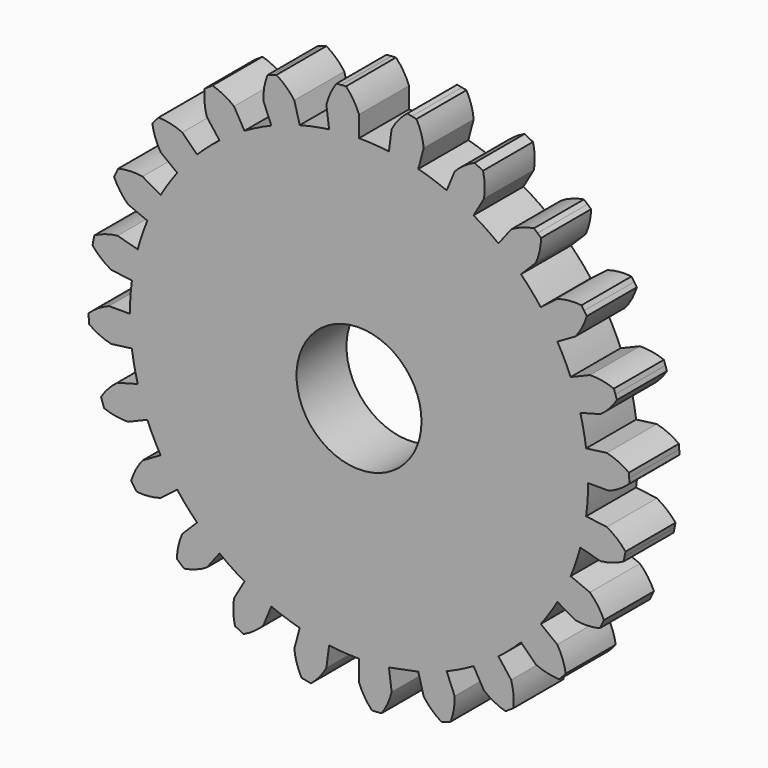
from build123d import *

# Parameters (mm, degrees)
F1_DEPTH = 6.35
F2_R     = 6.35
F3_DEPTH = 6.351


with BuildPart() as f1:
    # F0 (on Front) → F1 (new body)
    with BuildSketch(Plane.XZ):
        with BuildLine():
            Line((-3.315365, 25.182699), (-3.038532, 23.079944))
            ThreePointArc((-3.038532, 23.079944), (-4.541527, 22.831799), (-6.025074, 22.485884))
            Line((-6.025074, 22.485884), (-6.574004, 24.534516))
            ThreePointArc((-6.574004, 24.534516), (-7.398789, 25.462037), (-8.388247, 26.211396))
            Line((-8.388247, 26.211396), (-8.844945, 26.056367))
            Line((-8.844945, 26.056367), (-9.301643, 25.901339))
            ThreePointArc((-9.301643, 25.901339), (-9.630452, 24.704489), (-9.720159, 23.46654))
            Line((-9.720159, 23.46654), (-8.908526, 21.507084))
            ThreePointArc((-8.908526, 21.507084), (-10.296083, 20.87839), (-11.63955, 20.160292))
            Line((-11.63955, 20.160292), (-12.7, 21.997045))
            ThreePointArc((-12.7, 21.997045), (-13.736741, 22.679492), (-14.886432, 23.147226))
            Line((-14.886432, 23.147226), (-15.287445, 22.879278))
            Line((-15.287445, 22.879278), (-15.688457, 22.61133))
            ThreePointArc((-15.688457, 22.61133), (-15.696295, 21.37016), (-15.46254, 20.151175))
            Line((-15.46254, 20.151175), (-14.171418, 18.468552))
            ThreePointArc((-14.171418, 18.468552), (-15.348977, 17.502154), (-16.460809, 16.460809))
            Line((-16.460809, 16.460809), (-17.960512, 17.960512))
            ThreePointArc((-17.960512, 17.960512), (-19.138557, 18.351376), (-20.370132, 18.505611))
            Line((-20.370132, 18.505611), (-20.688131, 18.143004))
            Line((-20.688131, 18.143004), (-21.006129, 17.780396))
            ThreePointArc((-21.006129, 17.780396), (-20.692461, 16.579489), (-20.151175, 15.46254))
            Line((-20.151175, 15.46254), (-18.468552, 14.171418))
            ThreePointArc((-18.468552, 14.171418), (-19.355864, 12.933175), (-20.160292, 11.63955))
            Line((-20.160292, 11.63955), (-21.997045, 12.7))
            ThreePointArc((-21.997045, 12.7), (-23.236113, 12.772645), (-24.465642, 12.60287))
            Line((-24.465642, 12.60287), (-24.678955, 12.170314))
            Line((-24.678955, 12.170314), (-24.892268, 11.737758))
            ThreePointArc((-24.892268, 11.737758), (-24.27847, 10.658954), (-23.46654, 9.720159))
            Line((-23.46654, 9.720159), (-21.507084, 8.908526))
            ThreePointArc((-21.507084, 8.908526), (-22.043681, 7.482821), (-22.485884, 6.025074))
            Line((-22.485884, 6.025074), (-24.534516, 6.574004))
            ThreePointArc((-24.534516, 6.574004), (-25.750165, 6.32348), (-26.893858, 5.841263))
            Line((-26.893858, 5.841263), (-26.987948, 5.368237))
            Line((-26.987948, 5.368237), (-27.082039, 4.89521))
            ThreePointArc((-27.082039, 4.89521), (-26.209941, 4.012028), (-25.182699, 3.315365))
            Line((-25.182699, 3.315365), (-23.079944, 3.038532))
            ThreePointArc((-23.079944, 3.038532), (-23.229258, 1.522526), (-23.2791, 0))
            Line((-23.2791, 0), (-25.4, 0))
            ThreePointArc((-25.4, 0), (-26.509386, -0.556621), (-27.489302, -1.318416))
            Line((-27.489302, -1.318416), (-27.457758, -1.799677))
            Line((-27.457758, -1.799677), (-27.426215, -2.280938))
            ThreePointArc((-27.426215, -2.280938), (-26.355249, -2.90831), (-25.182699, -3.315365))
            Line((-25.182699, -3.315365), (-23.079944, -3.038532))
            ThreePointArc((-23.079944, -3.038532), (-22.831799, -4.541527), (-22.485884, -6.025074))
            Line((-22.485884, -6.025074), (-24.534516, -6.574004))
            ThreePointArc((-24.534516, -6.574004), (-25.462037, -7.398789), (-26.211396, -8.388247))
            Line((-26.211396, -8.388247), (-26.056367, -8.844945))
            Line((-26.056367, -8.844945), (-25.901339, -9.301643))
            ThreePointArc((-25.901339, -9.301643), (-24.704489, -9.630452), (-23.46654, -9.720159))
            Line((-23.46654, -9.720159), (-21.507084, -8.908526))
            ThreePointArc((-21.507084, -8.908526), (-20.87839, -10.296083), (-20.160292, -11.63955))
            Line((-20.160292, -11.63955), (-21.997045, -12.7))
            ThreePointArc((-21.997045, -12.7), (-22.679492, -13.736741), (-23.147226, -14.886432))
            Line((-23.147226, -14.886432), (-22.879278, -15.287445))
            Line((-22.879278, -15.287445), (-22.61133, -15.688457))
            ThreePointArc((-22.61133, -15.688457), (-21.37016, -15.696295), (-20.151175, -15.46254))
            Line((-20.151175, -15.46254), (-18.468552, -14.171418))
            ThreePointArc((-18.468552, -14.171418), (-17.502154, -15.348977), (-16.460809, -16.460809))
            Line((-16.460809, -16.460809), (-17.960512, -17.960512))
            ThreePointArc((-17.960512, -17.960512), (-18.351376, -19.138557), (-18.505611, -20.370132))
            Line((-18.505611, -20.370132), (-18.143004, -20.688131))
            Line((-18.143004, -20.688131), (-17.780396, -21.006129))
            ThreePointArc((-17.780396, -21.006129), (-16.579489, -20.692461), (-15.46254, -20.151175))
            Line((-15.46254, -20.151175), (-14.171418, -18.468552))
            ThreePointArc((-14.171418, -18.468552), (-12.933175, -19.355864), (-11.63955, -20.160292))
            Line((-11.63955, -20.160292), (-12.7, -21.997045))
            ThreePointArc((-12.7, -21.997045), (-12.772645, -23.236113), (-12.60287, -24.465642))
            Line((-12.60287, -24.465642), (-12.170314, -24.678955))
            Line((-12.170314, -24.678955), (-11.737758, -24.892268))
            ThreePointArc((-11.737758, -24.892268), (-10.658954, -24.27847), (-9.720159, -23.46654))
            Line((-9.720159, -23.46654), (-8.908526, -21.507084))
            ThreePointArc((-8.908526, -21.507084), (-7.482821, -22.043681), (-6.025074, -22.485884))
            Line((-6.025074, -22.485884), (-6.574004, -24.534516))
            ThreePointArc((-6.574004, -24.534516), (-6.32348, -25.750165), (-5.841263, -26.893858))
            Line((-5.841263, -26.893858), (-5.368237, -26.987948))
            Line((-5.368237, -26.987948), (-4.89521, -27.082039))
            ThreePointArc((-4.89521, -27.082039), (-4.012028, -26.209941), (-3.315365, -25.182699))
            Line((-3.315365, -25.182699), (-3.038532, -23.079944))
            ThreePointArc((-3.038532, -23.079944), (-1.522526, -23.229258), (0, -23.2791))
            Line((0, -23.2791), (0, -25.4))
            ThreePointArc((0, -25.4), (0.556621, -26.509386), (1.318416, -27.489302))
            Line((1.318416, -27.489302), (1.799677, -27.457758))
            Line((1.799677, -27.457758), (2.280938, -27.426215))
            ThreePointArc((2.280938, -27.426215), (2.90831, -26.355249), (3.315365, -25.182699))
            Line((3.315365, -25.182699), (3.038532, -23.079944))
            Line((3.038532, -23.079944), (6.025074, -22.485884))
            Line((6.025074, -22.485884), (6.574004, -24.534516))
            ThreePointArc((6.574004, -24.534516), (7.398789, -25.462037), (8.388247, -26.211396))
            Line((8.388247, -26.211396), (8.844945, -26.056367))
            Line((8.844945, -26.056367), (9.301643, -25.901339))
            ThreePointArc((9.301643, -25.901339), (9.630452, -24.704489), (9.720159, -23.46654))
            Line((9.720159, -23.46654), (8.908526, -21.507084))
            ThreePointArc((8.908526, -21.507084), (10.296083, -20.87839), (11.63955, -20.160292))
            Line((11.63955, -20.160292), (12.7, -21.997045))
            ThreePointArc((12.7, -21.997045), (13.736741, -22.679492), (14.886432, -23.147226))
            Line((14.886432, -23.147226), (15.287445, -22.879278))
            Line((15.287445, -22.879278), (15.688457, -22.61133))
            ThreePointArc((15.688457, -22.61133), (15.696295, -21.37016), (15.46254, -20.151175))
            Line((15.46254, -20.151175), (14.171418, -18.468552))
            ThreePointArc((14.171418, -18.468552), (15.348977, -17.502154), (16.460809, -16.460809))
            Line((16.460809, -16.460809), (17.960512, -17.960512))
            ThreePointArc((17.960512, -17.960512), (19.138557, -18.351376), (20.370132, -18.505611))
            Line((20.370132, -18.505611), (20.688131, -18.143004))
            Line((20.688131, -18.143004), (21.006129, -17.780396))
            ThreePointArc((21.006129, -17.780396), (20.692461, -16.579489), (20.151175, -15.46254))
            Line((20.151175, -15.46254), (18.468552, -14.171418))
            ThreePointArc((18.468552, -14.171418), (19.355864, -12.933175), (20.160292, -11.63955))
            Line((20.160292, -11.63955), (21.997045, -12.7))
            ThreePointArc((21.997045, -12.7), (23.236113, -12.772645), (24.465642, -12.60287))
            Line((24.465642, -12.60287), (24.678955, -12.170314))
            Line((24.678955, -12.170314), (24.892268, -11.737758))
            ThreePointArc((24.892268, -11.737758), (24.27847, -10.658954), (23.46654, -9.720159))
            Line((23.46654, -9.720159), (21.507084, -8.908526))
            ThreePointArc((21.507084, -8.908526), (22.043681, -7.482821), (22.485884, -6.025074))
            Line((22.485884, -6.025074), (24.534516, -6.574004))
            ThreePointArc((24.534516, -6.574004), (25.750165, -6.32348), (26.893858, -5.841263))
            Line((26.893858, -5.841263), (26.987948, -5.368237))
            Line((26.987948, -5.368237), (27.082039, -4.89521))
            ThreePointArc((27.082039, -4.89521), (26.209941, -4.012028), (25.182699, -3.315365))
            Line((25.182699, -3.315365), (23.079944, -3.038532))
            ThreePointArc((23.079944, -3.038532), (23.229258, -1.522526), (23.2791, 0))
            Line((23.2791, 0), (25.4, 0))
            ThreePointArc((25.4, 0), (26.509386, 0.556621), (27.489302, 1.318416))
            Line((27.489302, 1.318416), (27.457758, 1.799677))
            Line((27.457758, 1.799677), (27.426215, 2.280938))
            ThreePointArc((27.426215, 2.280938), (26.355249, 2.90831), (25.182699, 3.315365))
            Line((25.182699, 3.315365), (23.079944, 3.038532))
            ThreePointArc((23.079944, 3.038532), (22.831799, 4.541527), (22.485884, 6.025074))
            Line((22.485884, 6.025074), (24.534516, 6.574004))
            ThreePointArc((24.534516, 6.574004), (25.462037, 7.398789), (26.211396, 8.388247))
            Line((26.211396, 8.388247), (26.056367, 8.844945))
            Line((26.056367, 8.844945), (25.901339, 9.301643))
            ThreePointArc((25.901339, 9.301643), (24.704489, 9.630452), (23.46654, 9.720159))
            Line((23.46654, 9.720159), (21.507084, 8.908526))
            ThreePointArc((21.507084, 8.908526), (20.87839, 10.296083), (20.160292, 11.63955))
            Line((20.160292, 11.63955), (21.997045, 12.7))
            ThreePointArc((21.997045, 12.7), (22.679492, 13.736741), (23.147226, 14.886432))
            Line((23.147226, 14.886432), (22.879278, 15.287445))
            Line((22.879278, 15.287445), (22.61133, 15.688457))
            ThreePointArc((22.61133, 15.688457), (21.37016, 15.696295), (20.151175, 15.46254))
            Line((20.151175, 15.46254), (18.468552, 14.171418))
            ThreePointArc((18.468552, 14.171418), (17.502154, 15.348977), (16.460809, 16.460809))
            Line((16.460809, 16.460809), (17.960512, 17.960512))
            ThreePointArc((17.960512, 17.960512), (18.351376, 19.138557), (18.505611, 20.370132))
            Line((18.505611, 20.370132), (18.143004, 20.688131))
            Line((18.143004, 20.688131), (17.780396, 21.006129))
            ThreePointArc((17.780396, 21.006129), (16.579489, 20.692461), (15.46254, 20.151175))
            Line((15.46254, 20.151175), (14.171418, 18.468552))
            ThreePointArc((14.171418, 18.468552), (12.933175, 19.355864), (11.63955, 20.160292))
            Line((11.63955, 20.160292), (12.7, 21.997045))
            ThreePointArc((12.7, 21.997045), (12.772645, 23.236113), (12.60287, 24.465642))
            Line((12.60287, 24.465642), (12.170314, 24.678955))
            Line((12.170314, 24.678955), (11.737758, 24.892268))
            ThreePointArc((11.737758, 24.892268), (10.658954, 24.27847), (9.720159, 23.46654))
            Line((9.720159, 23.46654), (8.908526, 21.507084))
            ThreePointArc((8.908526, 21.507084), (7.482821, 22.043681), (6.025074, 22.485884))
            Line((6.025074, 22.485884), (6.574004, 24.534516))
            ThreePointArc((6.574004, 24.534516), (6.32348, 25.750165), (5.841263, 26.893858))
            Line((5.841263, 26.893858), (5.368237, 26.987948))
            Line((5.368237, 26.987948), (4.89521, 27.082039))
            ThreePointArc((4.89521, 27.082039), (4.012028, 26.209941), (3.315365, 25.182699))
            Line((3.315365, 25.182699), (3.038532, 23.079944))
            ThreePointArc((3.038532, 23.079944), (1.522526, 23.229258), (0, 23.2791))
            Line((0, 23.2791), (0, 25.4))
            ThreePointArc((0, 25.4), (-0.556621, 26.509386), (-1.318416, 27.489302))
            Line((-1.318416, 27.489302), (-1.799677, 27.457758))
            Line((-1.799677, 27.457758), (-2.280938, 27.426215))
            ThreePointArc((-2.280938, 27.426215), (-2.90831, 26.355249), (-3.315365, 25.182699))
        make_face()
    extrude(amount=F1_DEPTH)

    # F2 (on face) → F3 (cut, through all)
    with BuildSketch(Plane.XZ.offset(6.35)):
        Circle(F2_R)
    extrude(amount=-F3_DEPTH, mode=Mode.SUBTRACT)


solid = f1.part
